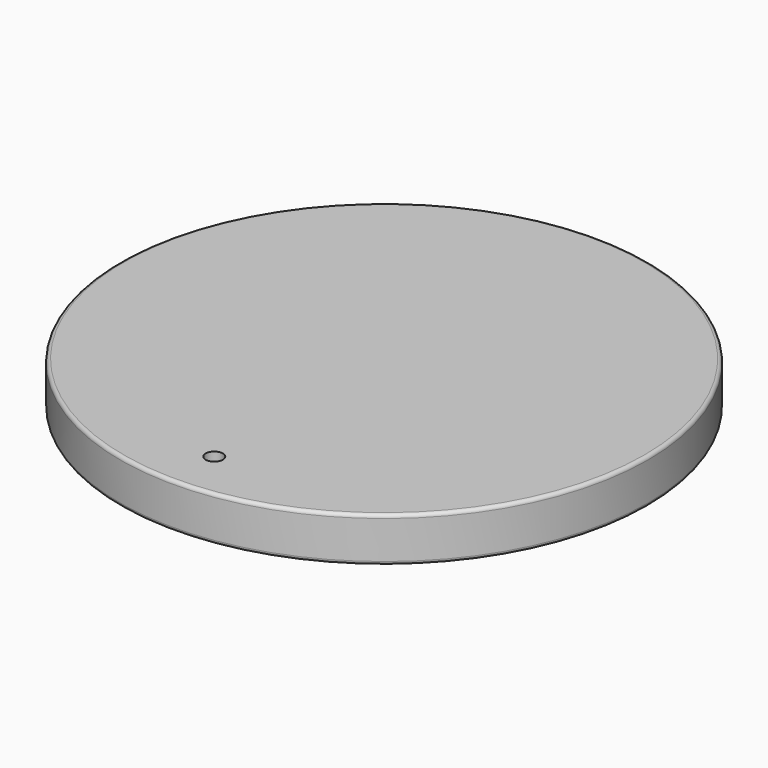
from build123d import *

# Parameters (mm, degrees)
F0_R     = 19.5
F1_DEPTH = 3.3
F2_R     = 0.254
F3_R     = 0.635
F4_DEPTH = 4


with BuildPart() as f1:
    # F0 (on Top) → F1 (new body)
    with BuildSketch(Plane.XY):
        Circle(F0_R)
    extrude(amount=F1_DEPTH)

    # F2
    f2_edges = [f1.edges().sort_by_distance(p)[0] for p in [
        (-19.5, 0, 3.3),
        (-19.5, 0, 0),
    ]]
    fillet(f2_edges, radius=F2_R)

    # F3 (on face) → F4 (cut)
    with BuildSketch(Plane(origin=(0, 0, 0), x_dir=(1, 0, 0), z_dir=(0, 0, -1))):
        with Locations((0, 15.682086)):
            Circle(F3_R)
    extrude(amount=-F4_DEPTH, mode=Mode.SUBTRACT)


solid = f1.part
